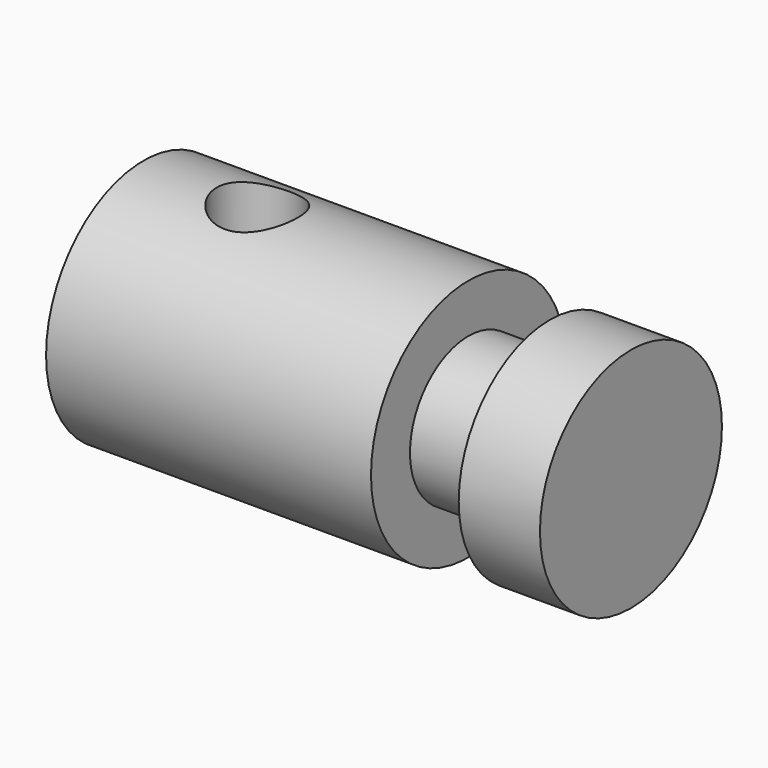
from build123d import *

# Parameters (mm, degrees)
F4_D = 5


with BuildPart() as f1:
    # F0 (on Top) → F1 (revolve)
    with BuildSketch(Plane.XY):
        Polygon((0, 7.5), (0, 0), (30, 0), (30, 7), (25, 7), (25, 4.5), (20, 4.5), (20, 7.5), align=None)
    revolve(axis=Axis((15, 0, 0), (-1, 0, 0)))


with BuildPart() as f1_1:
    # F2: moved
    add(f1.part.moved(Location((0, 0, 7.5))))

    # F4 (through all)
    with Locations(Plane(origin=(0, 0, 0), x_dir=(1, 0, 0), z_dir=(0, 0, -1))):
        with Locations((7, 0)):
            Hole(F4_D / 2)


solid = f1_1.part
